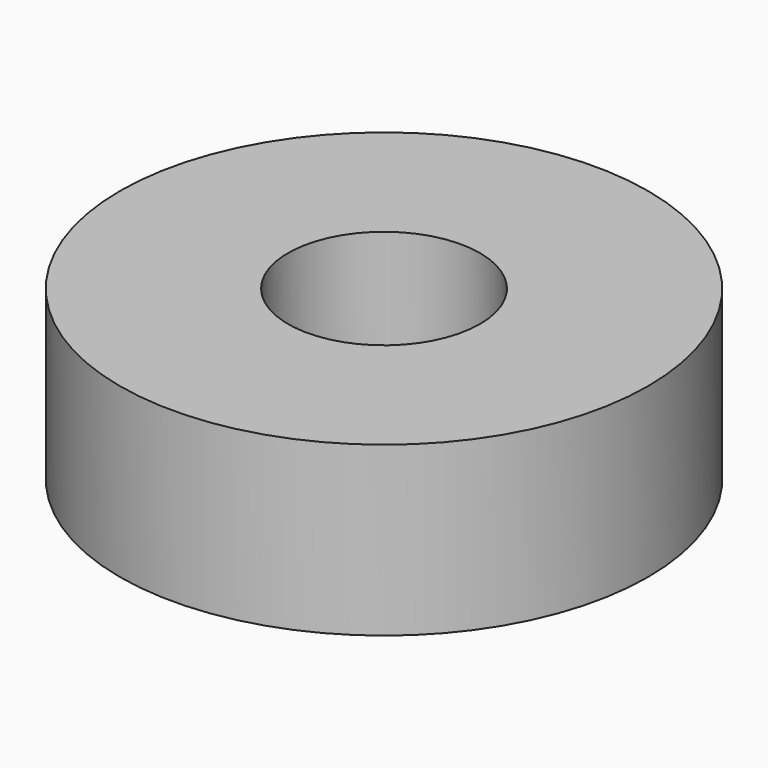
from build123d import *

# Parameters (mm, degrees)
CYLINDER_R     = 11
CYLINDER_DEPTH = 7
SKETCH_R       = 4
POCKET_DEPTH   = 7.001


with BuildPart() as part:
    # Cylinder → Cylinder (new body)
    with BuildSketch(Plane.XY):
        Circle(CYLINDER_R)
    extrude(amount=CYLINDER_DEPTH)

    # Sketch → Pocket (cut, through all)
    with BuildSketch(Plane.XY.offset(7)):
        Circle(SKETCH_R)
    extrude(amount=-POCKET_DEPTH, mode=Mode.SUBTRACT)


solid = part.part
